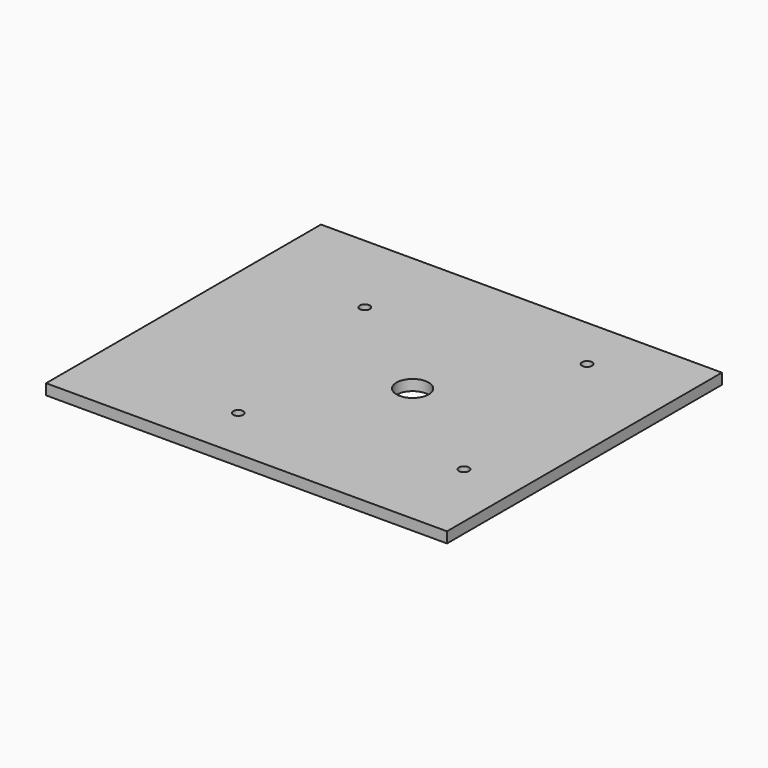
from build123d import *

# Parameters (mm, degrees)
F0_W     = 711.2
F0_H     = 609.6
F0_R     = 28.575
F1_DEPTH = 19.05
F3_D     = 17.85874


with BuildPart() as f1:
    # F0 (on Top) → F1 (new body)
    with BuildSketch(Plane.XY):
        Rectangle(F0_W, F0_H)
        with Locations((50.8, 0)):
            Circle(F0_R, mode=Mode.SUBTRACT)
    extrude(amount=F1_DEPTH)

    # F3 (through all)
    with Locations(Plane.XY.offset(19.05)):
        with Locations((-153.1352670464, 148.8440036774), (-91.9009929177, -208.2799971104), (257.6402368968, -144.7799950838), (193.5009929177, 208.2799971104)):
            Hole(F3_D / 2)


solid = f1.part
